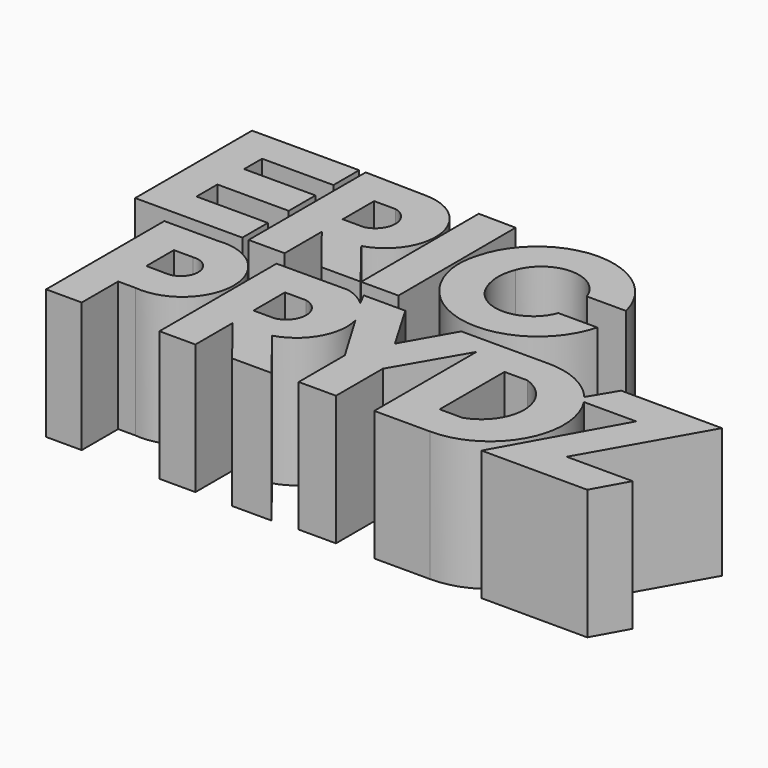
from build123d import *

# Parameters (mm, degrees)
F1_DEPTH = 25


with BuildPart() as f1:
    # F0 (on Top) → F1 (new body)
    with BuildSketch(Plane.XY):
        Polygon((-101.819627, 10.509911), (-101.819627, -17.586585), (-81.212424, -17.586585), (-81.212424, -11.44629), (-94.935052, -11.44629), (-94.935052, -6.422414), (-81.212424, -6.422414), (-81.212424, 0), (-94.935052, 0), (-94.935052, 4.323101), (-81.212424, 4.323101), (-81.212424, 10.509911), align=None)
        with BuildLine():
            Line((-68.11396, 10.325195), (-80.005154, 10.571739))
            Line((-80.005154, 10.571739), (-80.005154, -17.576434))
            Line((-80.005154, -17.576434), (-73.084339, -17.576434))
            Line((-73.084339, -17.576434), (-73.084339, -8.628672))
            Line((-73.084339, -8.628672), (-65.960877, -17.663306))
            Line((-65.960877, -17.663306), (-58.40306, -17.663306))
            Line((-58.40306, -17.663306), (-65.560192, -8.545102))
            ThreePointArc((-65.560192, -8.545102), (-58.738702, 1.986021), (-68.11396, 10.325195))
        make_face()
        with BuildLine():
            Line((-73.171213, -3.503253), (-73.171213, 4.054567))
            Line((-73.171213, 4.054567), (-69.08825, 4.054567))
            ThreePointArc((-69.08825, 4.054567), (-66.047507, 0.275657), (-69.08825, -3.503253))
            Line((-69.08825, -3.503253), (-73.171213, -3.503253))
        make_face(mode=Mode.SUBTRACT)
        Polygon((-51.182448, 10.584728), (-58.34233, 10.681977), (-58.284808, -17.663306), (-51.125153, -17.648776), align=None)
        with BuildLine():
            ThreePointArc((-42.627156, -0.186757), (-35.746869, 4.728277), (-28.866582, -0.186757))
            Line((-28.866582, -0.186757), (-21.313882, -0.186757))
            ThreePointArc((-21.313882, -0.186757), (-35.639831, 11.064195), (-49.96578, -0.186757))
            ThreePointArc((-49.96578, -0.186757), (-50.510255, -3.632955), (-50.078802, -7.095119))
            ThreePointArc((-50.078802, -7.095119), (-35.701002, -18.220281), (-21.323202, -7.095119))
            Line((-21.323202, -7.095119), (-28.817637, -7.095119))
            ThreePointArc((-28.817637, -7.095119), (-35.674944, -11.872304), (-42.53225, -7.095119))
            ThreePointArc((-42.53225, -7.095119), (-43.257806, -3.650254), (-42.627156, -0.186757))
        make_face()
        with BuildLine():
            Line((-55.234315, -20.852463), (-54.105148, -23.09729))
            ThreePointArc((-54.105148, -23.09729), (-52.256175, -25.316219), (-51.140224, -27.980238))
            Line((-51.140224, -27.980238), (-45.270536, -37.861388))
            Line((-45.270536, -37.861388), (-45.270536, -48.957791))
            Line((-45.270536, -48.957791), (-38.097106, -48.957791))
            Line((-38.097106, -48.957791), (-38.097106, -37.693258))
            Line((-38.097106, -37.693258), (-30.531377, -24.635373))
            Line((-30.531377, -24.635373), (-30.531377, -49.209004))
            Line((-30.531377, -49.209004), (-19.836601, -49.209004))
            ThreePointArc((-19.836601, -49.209004), (-7.21076, -41.885473), (-7.737281, -27.298879))
            ThreePointArc((-7.737281, -27.298879), (-8.206641, -26.621257), (-8.714583, -25.972052))
            ThreePointArc((-8.714583, -25.972052), (-13.694552, -22.149981), (-19.836601, -20.852463))
            Line((-19.836601, -20.852463), (-36.474702, -20.852463))
            Line((-36.474702, -20.852463), (-41.78071, -30.177152))
            Line((-41.78071, -30.177152), (-47.250369, -20.852463))
            Line((-47.250369, -20.852463), (-55.234315, -20.852463))
        make_face()
        with BuildLine():
            Line((-23.177242, -42.680707), (-23.177242, -27.084634))
            Line((-23.177242, -27.084634), (-18.784676, -27.084634))
            ThreePointArc((-18.784676, -27.084634), (-13.164762, -34.88267), (-18.784676, -42.680707))
            Line((-18.784676, -42.680707), (-23.177242, -42.680707))
        make_face(mode=Mode.SUBTRACT)
        with BuildLine():
            Line((-58.172056, -20.937729), (-71.916036, -20.981817))
            Line((-71.916036, -20.981817), (-71.916036, -49.129989))
            Line((-71.916036, -49.129989), (-64.995222, -49.129989))
            Line((-64.995222, -49.129989), (-64.995222, -40.182227))
            Line((-64.995222, -40.182227), (-57.871759, -49.216861))
            Line((-57.871759, -49.216861), (-50.313942, -49.216861))
            Line((-50.313942, -49.216861), (-57.793416, -39.687994))
            ThreePointArc((-57.793416, -39.687994), (-52.113595, -35.171388), (-51.140224, -27.980238))
            ThreePointArc((-51.140224, -27.980238), (-52.256175, -25.316219), (-54.105148, -23.09729))
            ThreePointArc((-54.105148, -23.09729), (-56.008982, -21.773407), (-58.172056, -20.937729))
        make_face()
        with BuildLine():
            Line((-65.082096, -35.056808), (-65.082096, -27.498988))
            Line((-65.082096, -27.498988), (-60.999133, -27.498988))
            ThreePointArc((-60.999133, -27.498988), (-57.958389, -31.277898), (-60.999133, -35.056808))
            Line((-60.999133, -35.056808), (-65.082096, -35.056808))
        make_face(mode=Mode.SUBTRACT)
        with BuildLine():
            Line((-83.580248, -20.7002), (-93.72317, -20.7002))
            Line((-93.72317, -20.7002), (-93.72317, -49.129989))
            Line((-93.72317, -49.129989), (-86.863182, -49.129989))
            Line((-86.863182, -49.129989), (-86.863182, -40.364787))
            Line((-86.863182, -40.364787), (-83.580248, -40.364787))
            ThreePointArc((-83.580248, -40.364787), (-72.486284, -30.532493), (-83.580248, -20.7002))
        make_face()
        with BuildLine():
            ThreePointArc((-83.021238, -27.175458), (-79.347314, -30.455526), (-82.928069, -33.837058))
            Line((-82.928069, -33.837058), (-86.701423, -33.790473))
            Line((-86.701423, -33.790473), (-86.701423, -27.175458))
            Line((-86.701423, -27.175458), (-83.021238, -27.175458))
        make_face(mode=Mode.SUBTRACT)
        with BuildLine():
            Line((-5.684703, -20.901453), (-8.714583, -25.972052))
            ThreePointArc((-8.714583, -25.972052), (-8.206641, -26.621257), (-7.737281, -27.298879))
            Line((-7.737281, -27.298879), (2.322947, -27.298879))
            Line((2.322947, -27.298879), (-9.876917, -49.225628))
            Line((-9.876917, -49.225628), (10.48169, -49.256977))
            Line((10.48169, -49.256977), (14.057434, -42.810563))
            Line((14.057434, -42.810563), (1.366057, -42.810563))
            Line((1.366057, -42.810563), (13.755192, -20.972135))
            Line((13.755192, -20.972135), (-5.684703, -20.901453))
        make_face()
    extrude(amount=F1_DEPTH)


solid = f1.part
